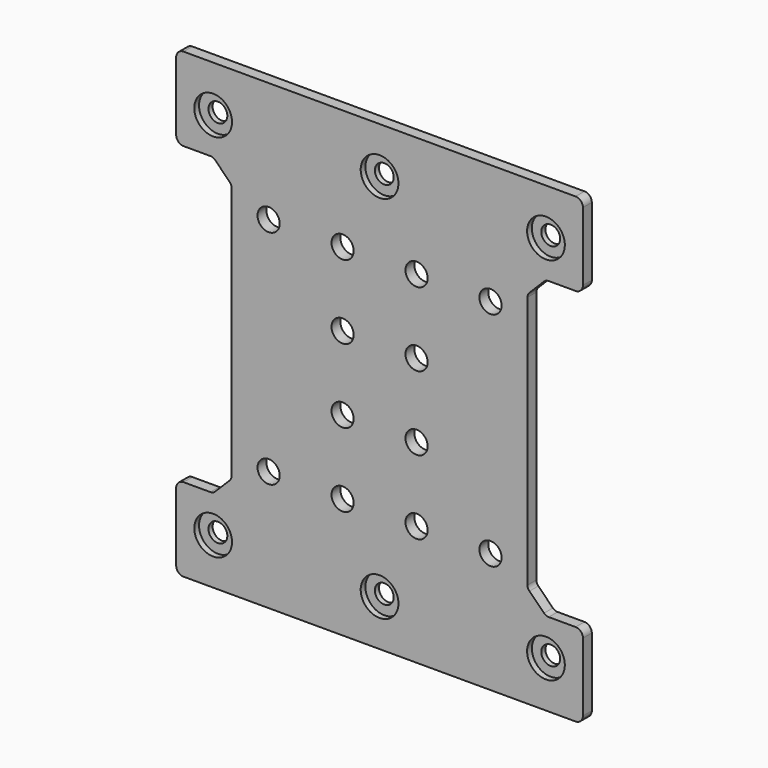
from build123d import *

# Parameters (mm, degrees)
F1_DEPTH       = 3
F2_D           = 6
F2_DEPTH       = 34.5
F3_D           = 5.1
F3_DEPTH       = 34.5
F3_CBORE_D     = 10.2
F3_CBORE_DEPTH = 1.6
F5_D           = 5.1
F5_DEPTH       = 34.5
F5_CBORE_D     = 10.2
F5_CBORE_DEPTH = 1.6


with BuildPart() as f1:
    # F0 (on Front) → F1 (new body)
    with BuildSketch(Plane.XZ):
        with BuildLine():
            Line((-157.773511, 88.993683), (-210.773511, 88.993683))
            ThreePointArc((-210.773511, 88.993683), (-212.187724, 88.407897), (-212.773511, 86.993683))
            Line((-212.773511, 86.993683), (-212.773511, 68.493683))
            ThreePointArc((-212.773511, 68.493683), (-212.187724, 67.07947), (-210.773511, 66.493683))
            Line((-210.773511, 66.493683), (-203.519511, 66.493683))
            ThreePointArc((-203.519511, 66.493683), (-202.830681, 66.356667), (-202.246719, 65.966476))
            Line((-202.246719, 65.966476), (-198.300719, 62.020476))
            ThreePointArc((-198.300719, 62.020476), (-197.910528, 61.436514), (-197.773511, 60.747683))
            Line((-197.773511, 60.747683), (-197.773511, 26.493683))
            Line((-197.773511, 26.493683), (-157.773511, 26.493683))
            Line((-157.773511, 26.493683), (-157.773511, 88.993683))
        make_face()
    extrude(amount=-F1_DEPTH)

    # F2
    with Locations(Plane.XZ):
        with Locations((-187.773511, 56.493683), (-167.773511, 56.493683), (-167.773511, 36.493683)):
            Hole(F2_D / 2, depth=F2_DEPTH)

    # F3
    with Locations(Plane.XZ):
        with Locations((-202.773511, 76.493683)):
            CounterBoreHole(F3_D / 2, F3_CBORE_D / 2, F3_CBORE_DEPTH, depth=F3_DEPTH)

    # F4: F1 across face


with BuildPart() as f1_1:
    add(f1.part)
    add(f1.part.mirror(Plane(origin=(-157.773511, 1.5, 57.743683), x_dir=(0, 1, 0), z_dir=(1, 0, 0))))

    # F5
    with Locations(Plane.XZ):
        with Locations((-157.773511, 76.493683)):
            CounterBoreHole(F5_D / 2, F5_CBORE_D / 2, F5_CBORE_DEPTH, depth=F5_DEPTH)

    # F6: F1 across face


with BuildPart() as f1_2:
    add(f1_1.part)
    add(f1_1.part.mirror(Plane(origin=(-157.773511, 1.5, 26.493683), x_dir=(1, 0, 0), z_dir=(0, 0, -1))))


solid = f1_2.part
